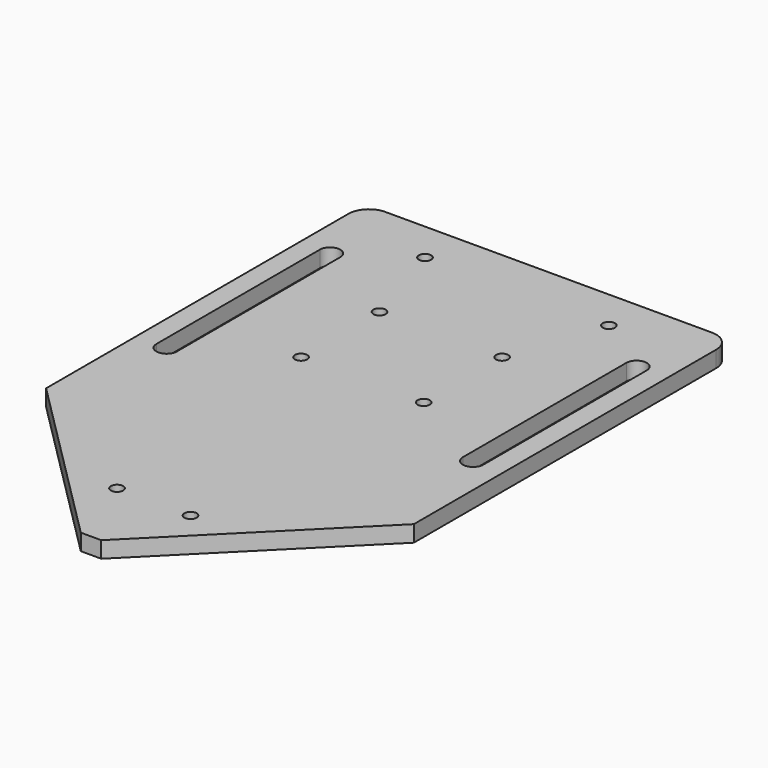
from build123d import *

# Parameters (mm, degrees)
F0_W     = 45
F0_H     = 140
F1_DEPTH = 4
F2_R     = 5
F3_SIZE  = 42.5
F5_D     = 3
F8_DEPTH = 60.96641
F11_D    = 3
F13_D    = 3


with BuildPart() as f1:
    # F0 (on Top) → F1 (new body)
    with BuildSketch(Plane.XY):
        with Locations((22.5, 70)):
            Rectangle(F0_W, F0_H)
    extrude(amount=F1_DEPTH)

    # F2
    f2_edges = [f1.edges().sort_by_distance(p)[0] for p in [
        (45, 140, 2),
    ]]
    fillet(f2_edges, radius=F2_R)

    # F3
    f3_edges = [f1.edges().sort_by_distance(p)[0] for p in [
        (45, 0, 2),
    ]]
    chamfer(f3_edges, length=F3_SIZE)

    # F5 (through all)
    with Locations(Plane.XY.offset(4)):
        with Locations((15, 107), (15, 83)):
            Hole(F5_D / 2)

    # F7 (on face) → F8 (cut)
    with BuildSketch(Plane.XY.offset(4)):
        with BuildLine():
            ThreePointArc((35, 70), (37.5, 67.5), (40, 70))
            Line((40, 70), (40, 120))
            ThreePointArc((40, 120), (37.5, 122.5), (35, 120))
            Line((35, 120), (35, 70))
        make_face()
    extrude(amount=-F8_DEPTH, mode=Mode.SUBTRACT)

    # F9: F1 across plane


with BuildPart() as f1_1:
    add(f1.part)
    add(f1.part.mirror(Plane.YZ))

    # F11 (through all)
    with Locations(Plane.XY.offset(4)):
        with Locations((-22.259496, 130), (22.740504, 130)):
            Hole(F11_D / 2)

    # F13 (through all)
    with Locations(Plane.XY.offset(4)):
        with Locations((-8.5621, 18.652199), (9.4379, 18.652199)):
            Hole(F13_D / 2)


solid = f1_1.part
